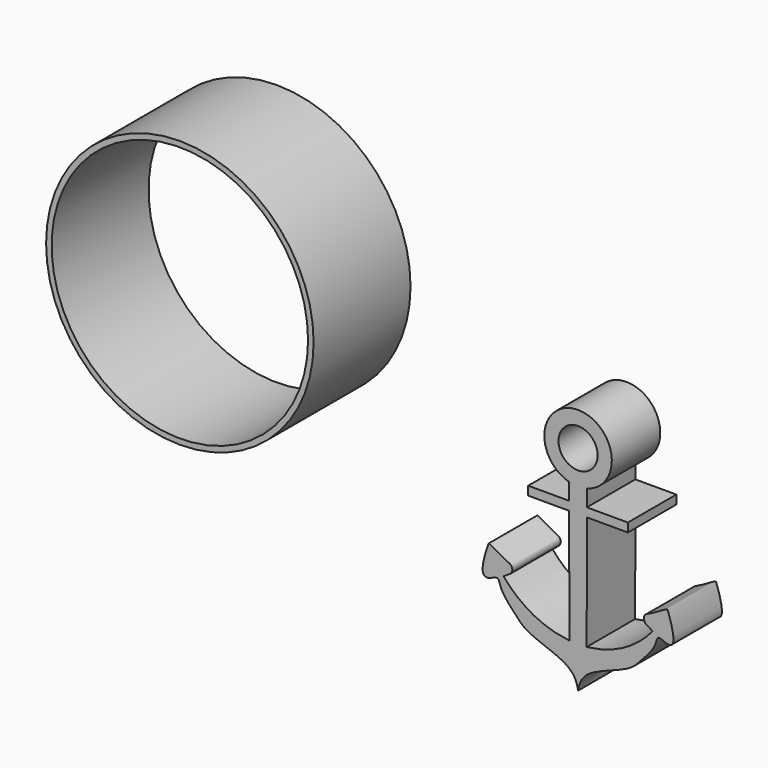
from build123d import *

# Parameters (mm, degrees)
F0_R     = 3.8759162665
F1_DEPTH = 12
F2_R     = 26.5
F2_R_2   = 25.4
F3_DEPTH = 24


with BuildPart() as f1:
    # F0 (on Front) → F1 (new body)
    with BuildSketch(Plane.XZ):
        with BuildLine():
            Line((-21.5302521337, 5.5590593242), (-21.5302521337, 8.8538810128))
            ThreePointArc((-21.5302521337, 8.8538810128), (-23.2760437438, 21.9933555982), (-25.021835354, 8.8538810128))
            Line((-25.021835354, 8.8538810128), (-25.021835354, 5.5590593242))
            Line((-25.021835354, 5.5590593242), (-33.1476293504, 5.5590593242))
            Line((-33.1476293504, 5.5590593242), (-33.1476293504, 3.8139123935))
            Line((-33.1476293504, 3.8139123935), (-25.0668395311, 3.8139123935))
            Line((-25.0668395311, 3.8139123935), (-24.9697342515, -18.8170000911))
            add(Edge.make_bspline(
                [(-24.9697342515, -18.8170000911), (-26.5566975072, -18.5767439274), (-32.7670116659, -18.0742303532), (-38.0834599741, -11.7898479917)],
                knots=[0, 0, 0, 0, 14.8966941273, 14.8966941273, 14.8966941273, 14.8966941273], degree=3))
            add(Edge.make_bspline(
                [(-38.0834599741, -11.7898479917), (-37.9481989681, -11.8006571144), (-37.1116874222, -11.2281065545), (-36.6223678426, -10.9620898994), (-36.3752548317, -10.53361428), (-36.2525393891, -10.0760480178), (-36.4016267071, -9.6348476712), (-36.5585250899, -9.4206949048), (-36.8752992311, -9.1697932075), (-37.6628817105, -8.8493181249), (-38.2837843823, -8.4875575513), (-40.9595374192, -6.8910835151), (-40.993004878, -7.1116009032), (-41.121940297, -7.2965171892), (-42.953213265, -12.7055453379), (-40.9589524108, -13.4035315376), (-39.0195477994, -11.9647064004), (-38.7033814744, -14.1024575625), (-37.195819238, -16.1496015925), (-35.563778299, -17.8606384548), (-33.4365207149, -20.3475091015), (-25.3418186006, -22.5146295584), (-23.5726427098, -25.0907470746), (-23.2760437438, -26.9818875042)],
                knots=[0.0106014088, 0.0106014088, 0.0106014088, 0.0106014088, 0.0456486259, 0.0791229044, 0.1053338733, 0.1323328268, 0.1585529071, 0.1784393705, 0.2031037389, 0.2375045392, 0.276836435, 0.3434735041, 0.353252366, 0.3716266033, 0.4615481804, 0.5076634165, 0.5603736088, 0.6085161545, 0.672615672, 0.7323074779, 0.802696904, 0.9139649055, 0.9997908074, 0.9997908074, 0.9997908074, 0.9997908074], degree=3))
            add(Edge.make_bspline(
                [(-8.4686275135, -11.7898479917), (-8.6038885196, -11.8006571144), (-9.4404000654, -11.2281065545), (-9.929719645, -10.9620898994), (-10.1768326559, -10.53361428), (-10.2995480985, -10.0760480178), (-10.1504607805, -9.6348476712), (-9.9935623977, -9.4206949048), (-9.6767882565, -9.1697932075), (-8.8892057772, -8.8493181249), (-8.2683031053, -8.4875575513), (-5.5925500685, -6.8910835151), (-5.5590826096, -7.1116009032), (-5.4301471906, -7.2965171892), (-3.5988742226, -12.7055453379), (-5.5931350768, -13.4035315376), (-7.5325396883, -11.9647064004), (-7.8487060133, -14.1024575625), (-9.3562682496, -16.1496015925), (-10.9883091886, -17.8606384548), (-13.1155667727, -20.3475091015), (-21.210268887, -22.5146295584), (-22.9794447779, -25.0907470746), (-23.2760437438, -26.9818875042)],
                knots=[0.0106014088, 0.0106014088, 0.0106014088, 0.0106014088, 0.0456486259, 0.0791229044, 0.1053338733, 0.1323328268, 0.1585529071, 0.1784393705, 0.2031037389, 0.2375045392, 0.276836435, 0.3434735041, 0.353252366, 0.3716266033, 0.4615481804, 0.5076634165, 0.5603736088, 0.6085161545, 0.672615672, 0.7323074779, 0.802696904, 0.9139649055, 0.9997908074, 0.9997908074, 0.9997908074, 0.9997908074], degree=3))
            add(Edge.make_bspline(
                [(-21.5823532361, -18.8170000911), (-19.9953899804, -18.5767439274), (-13.7850758217, -18.0742303532), (-8.4686275135, -11.7898479917)],
                knots=[0, 0, 0, 0, 14.8966941273, 14.8966941273, 14.8966941273, 14.8966941273], degree=3))
            Line((-21.5823532361, -18.8170000911), (-21.4852479566, 3.8139123935))
            Line((-21.4852479566, 3.8139123935), (-13.4044581372, 3.8139123935))
            Line((-13.4044581372, 3.8139123935), (-13.4044581372, 5.5590593242))
            Line((-13.4044581372, 5.5590593242), (-21.5302521337, 5.5590593242))
        make_face()
        with BuildLine():
            add(Edge.make_bspline(
                [(-38.0834599741, -11.7898479917), (-38.0958438207, -11.775209492), (-38.1082228172, -11.7605396207), (-38.1205968941, -11.7458383082)],
                knots=[14.8966941273, 14.8966941273, 14.8966941273, 14.8966941273, 14.9313936792, 14.9313936792, 14.9313936792, 14.9313936792], degree=3))
            add(Edge.make_bspline(
                [(-38.1205968941, -11.7458383082), (-38.1280353419, -11.7252340573), (-38.1304950908, -11.7731398527), (-38.1011657241, -11.7884330708), (-38.0834599741, -11.7898479917)],
                knots=[0, 0, 0, 0, 0.0060137062, 0.0106014088, 0.0106014088, 0.0106014088, 0.0106014088], degree=3))
        make_face(mode=Mode.SUBTRACT)
        with BuildLine():
            add(Edge.make_bspline(
                [(-8.4314905935, -11.7458383082), (-8.4240521457, -11.7252340573), (-8.4215923968, -11.7731398527), (-8.4509217635, -11.7884330708), (-8.4686275135, -11.7898479917)],
                knots=[0, 0, 0, 0, 0.0060137062, 0.0106014088, 0.0106014088, 0.0106014088, 0.0106014088], degree=3))
            add(Edge.make_bspline(
                [(-8.4686275135, -11.7898479917), (-8.456243667, -11.775209492), (-8.4438646704, -11.7605396207), (-8.4314905935, -11.7458383082)],
                knots=[14.8966941273, 14.8966941273, 14.8966941273, 14.8966941273, 14.9313936792, 14.9313936792, 14.9313936792, 14.9313936792], degree=3))
        make_face(mode=Mode.SUBTRACT)
        with Locations((-23.2760437438, 15.3076399867)):
            Circle(F0_R, mode=Mode.SUBTRACT)
        with BuildLine():
            add(Edge.make_bspline(
                [(-38.1205968941, -11.7458383082), (-38.1280353419, -11.7252340573), (-38.1304950908, -11.7731398527), (-38.1011657241, -11.7884330708), (-38.0834599741, -11.7898479917)],
                knots=[0, 0, 0, 0, 0.0060137062, 0.0106014088, 0.0106014088, 0.0106014088, 0.0106014088], degree=3))
            add(Edge.make_bspline(
                [(-38.0834599741, -11.7898479917), (-38.0958438207, -11.775209492), (-38.1082228172, -11.7605396207), (-38.1205968941, -11.7458383082)],
                knots=[14.8966941273, 14.8966941273, 14.8966941273, 14.8966941273, 14.9313936792, 14.9313936792, 14.9313936792, 14.9313936792], degree=3))
        make_face()
        with BuildLine():
            add(Edge.make_bspline(
                [(-8.4686275135, -11.7898479917), (-8.456243667, -11.775209492), (-8.4438646704, -11.7605396207), (-8.4314905935, -11.7458383082)],
                knots=[14.8966941273, 14.8966941273, 14.8966941273, 14.8966941273, 14.9313936792, 14.9313936792, 14.9313936792, 14.9313936792], degree=3))
            add(Edge.make_bspline(
                [(-8.4314905935, -11.7458383082), (-8.4240521457, -11.7252340573), (-8.4215923968, -11.7731398527), (-8.4509217635, -11.7884330708), (-8.4686275135, -11.7898479917)],
                knots=[0, 0, 0, 0, 0.0060137062, 0.0106014088, 0.0106014088, 0.0106014088, 0.0106014088], degree=3))
        make_face()
    extrude(amount=F1_DEPTH)


with BuildPart() as f3:
    # F2 (on Front) → F3 (new body)
    with BuildSketch(Plane.XZ):
        with Locations((-92.5657898188, 24.7428249568)):
            Circle(F2_R)
        with Locations((-92.5657898188, 24.7428249568)):
            Circle(F2_R_2, mode=Mode.SUBTRACT)
    extrude(amount=F3_DEPTH)


solid = Compound([f1.part, f3.part])
